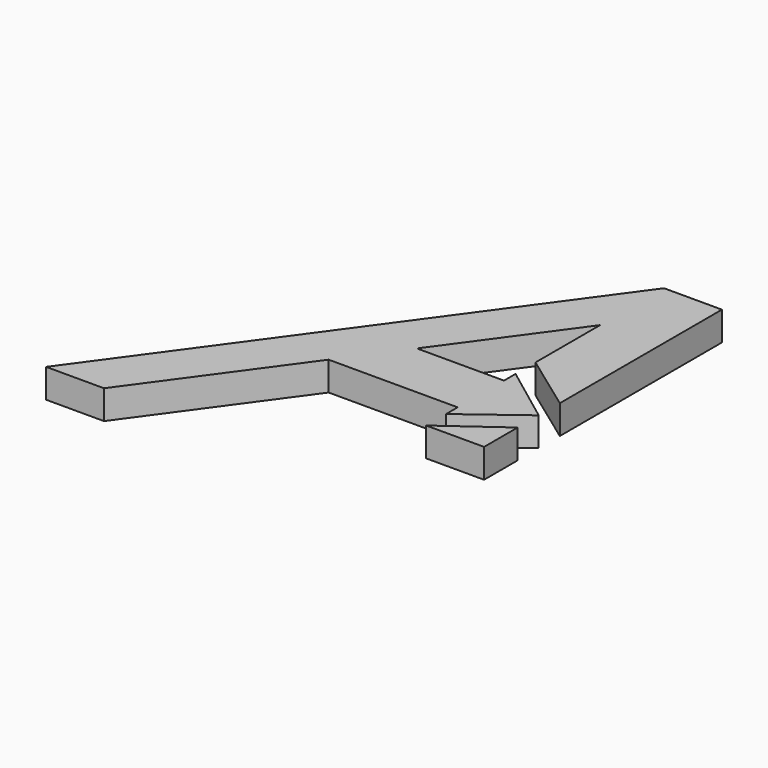
from build123d import *

# Parameters (mm, degrees)
F1_DEPTH = 6.35


with BuildPart() as f1:
    # F0 (on Top) → F1 (new body)
    with BuildSketch(Plane.XY):
        Polygon((-28.522962, -7.201005), (-51.329319, -38.668455), (-38.629319, -38.668455), (-15.206187, -6.35), (13.101868, -6.35), (13.101868, -9.525), (25.801868, 0), (13.101868, 9.525), (13.101868, 6.35), (-6.001732, 6.35), (13.101868, 32.708509), (13.101868, 14.986), (25.801868, 5.781545), (25.801868, 50.231545), (13.101868, 50.231545), align=None)
        Polygon((13.101868, -14.986), (25.801868, -14.986), (25.801868, -5.781545), align=None)
    extrude(amount=F1_DEPTH)


solid = f1.part
